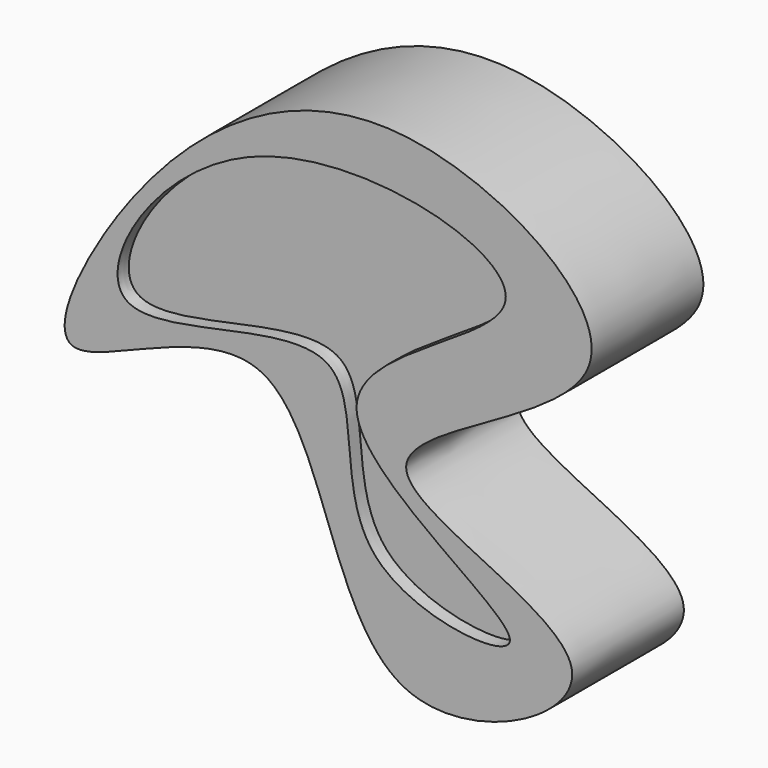
from build123d import *

# Parameters (mm, degrees)
F1_DEPTH = 25.4
F3_DEPTH = 2.54


with BuildPart() as f1:
    # F0 (on Front) → F1 (new body)
    with BuildSketch(Plane.XZ):
        with BuildLine():
            add(Edge.make_bspline(
                [(-50.017349422, 0), (-37.6287503582, 16.3960795102), (-5.4904744481, 39.4228310317), (57.7301109779, -2.4444017533), (-28.3499838403, -27.4391892112), (53.6963689107, -46.1203055376), (-13.8480661103, -80.4371837952), (-14.8549546099, 0.3676501227), (-72.2487675671, -40.6525737786), (-58.8949471936, -11.7493348662), (-50.017349422, 0)],
                knots=[0, 0, 0, 0, 0.1481609206, 0.2762635169, 0.405094726, 0.5253894418, 0.6383759396, 0.7780712348, 0.8938287492, 1, 1, 1, 1], degree=3))
        make_face()
    extrude(amount=F1_DEPTH)

    # F2 (on face) → F3 (cut)
    with BuildSketch(Plane.XZ.offset(25.4)):
        with BuildLine():
            add(Edge.make_bspline(
                [(-50.8008599281, -16.5883656591), (-57.0001111889, -12.4067426431), (-33.557418786, 28.5218453634), (45.0112114609, 7.3035216516), (-35.6786127298, -18.3611522094), (40.9220253123, -53.8002248153), (-17.906849584, -48.8919142107), (-1.948937275, -0.8725100208), (-44.7609366722, -20.6625160749), (-50.8008599281, -16.5883656591)],
                knots=[0, 0, 0, 0, 0.1474203204, 0.3106488116, 0.4568382778, 0.6069174728, 0.7265220621, 0.8563685542, 1, 1, 1, 1], degree=3))
        make_face()
    extrude(amount=-F3_DEPTH, mode=Mode.SUBTRACT)


solid = f1.part
